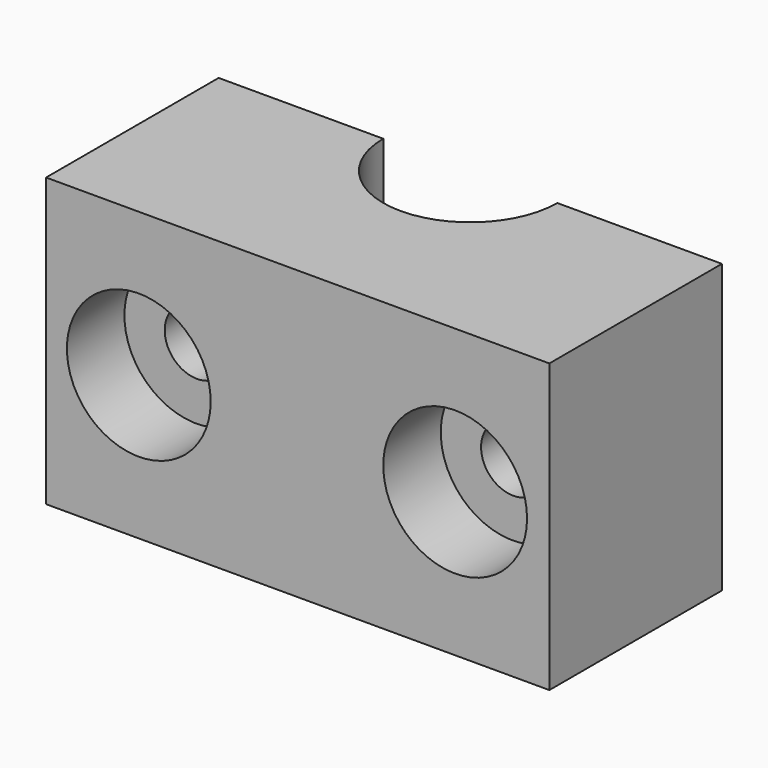
from build123d import *

# Parameters (mm, degrees)
PAD_DEPTH       = 20
SKETCH001_R     = 2.25
POCKET_DEPTH    = 15.001
SKETCH002_R     = 5
POCKET001_DEPTH = 5


with BuildPart() as part:
    # Sketch → Pad (new body)
    with BuildSketch(Plane.XY):
        with BuildLine():
            ThreePointArc((-6.05, 0), (0, -6.05), (6.05, 0))
            Line((6.05, 0), (17.5, 0))
            Line((17.5, 0), (17.5, -15))
            Line((17.5, -15), (-17.5, -15))
            Line((-17.5, -15), (-17.5, 0))
            Line((-17.5, 0), (-6.05, 0))
        make_face()
    extrude(amount=PAD_DEPTH)

    # Sketch001 → Pocket (cut, through all)
    with BuildSketch(Plane.XZ.offset(15)):
        with Locations((-11, 10)):
            Circle(SKETCH001_R)
        with Locations((11, 10)):
            Circle(SKETCH001_R)
    extrude(amount=-POCKET_DEPTH, mode=Mode.SUBTRACT)

    # Sketch002 → Pocket001 (cut)
    with BuildSketch(Plane.XZ.offset(15)):
        with Locations((-11.052364, 10)):
            Circle(SKETCH002_R)
        with Locations((10.947636, 10)):
            Circle(SKETCH002_R)
    extrude(amount=-POCKET001_DEPTH, mode=Mode.SUBTRACT)


solid = part.part
